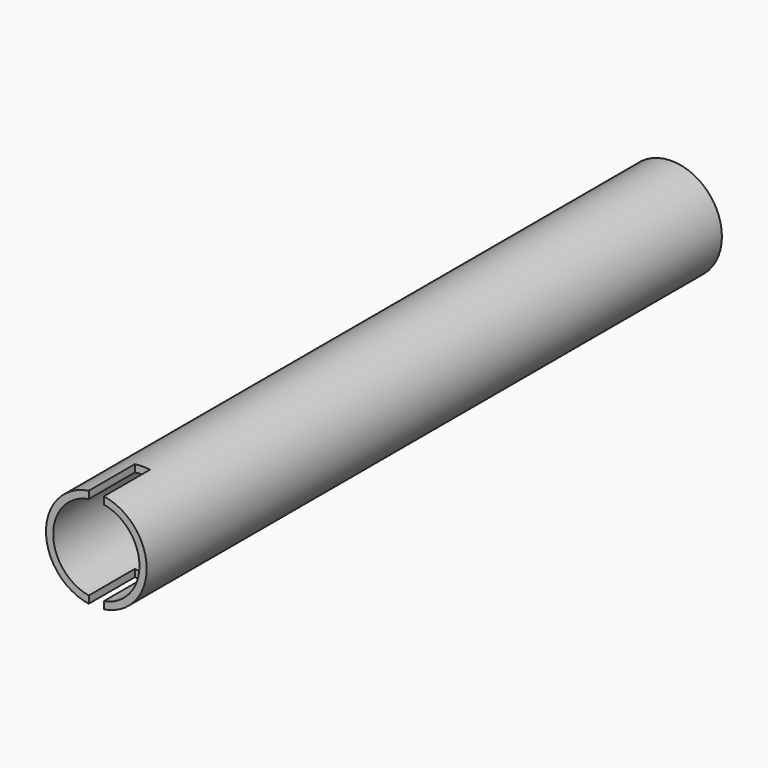
from build123d import *

# Parameters (mm, degrees)
F0_R     = 44.45
F0_R_2   = 38.1
F1_DEPTH = 317.5
F2_W     = 13.335
F2_H     = 50.8
F3_DEPTH = 44.451
F4_DEPTH = 44.451


with BuildPart() as f1:
    # F0 (on Front) → F1 (new body, symmetric)
    with BuildSketch(Plane.XZ):
        Circle(F0_R)
        Circle(F0_R_2, mode=Mode.SUBTRACT)
    extrude(amount=F1_DEPTH, both=True)

    # F2 (on Top) → F3 (cut, through all)
    with BuildSketch(Plane.XY):
        with Locations((0, -342.9)):
            Rectangle(F2_W, F2_H)
        with Locations((0, -292.1)):
            Rectangle(F2_W, F2_H)
    extrude(amount=F3_DEPTH, mode=Mode.SUBTRACT)

    # F2 (on Top) → F4 (cut, through all)
    with BuildSketch(Plane.XY):
        with Locations((0, -292.1)):
            Rectangle(F2_W, F2_H)
    extrude(amount=-F4_DEPTH, mode=Mode.SUBTRACT)


solid = f1.part
